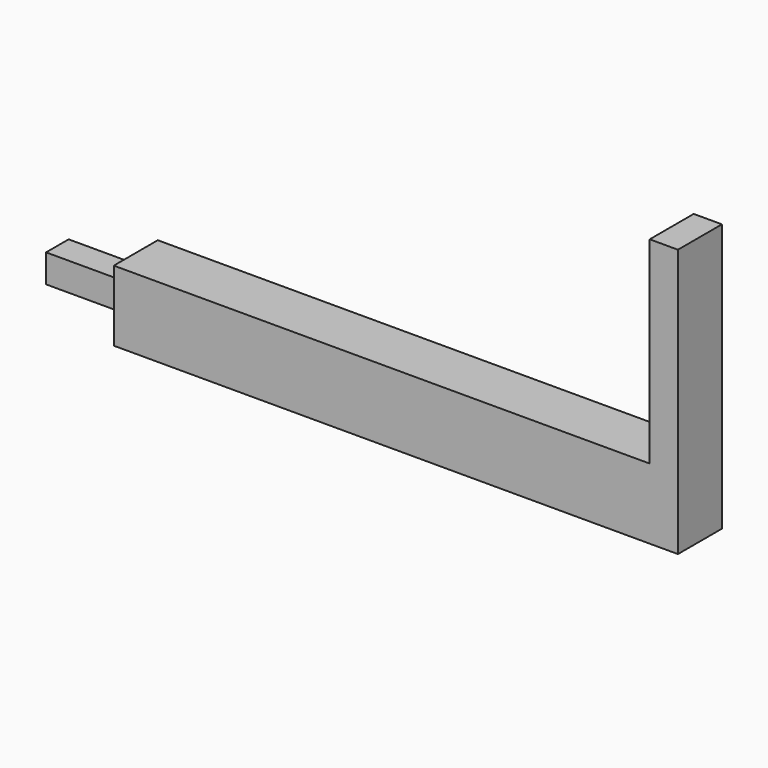
from build123d import *

# Parameters (mm, degrees)
F0_W     = 190
F0_H     = 19.5
F0_W_2   = 10
F1_DEPTH = 25
F2_W     = 10
F2_H     = 19.5
F3_DEPTH = 70
F4_W     = 10
F4_H     = 10
F5_DEPTH = 28


with BuildPart() as f1:
    # F0 (on Top) → F1 (new body)
    with BuildSketch(Plane.XY):
        with Locations((26.199683, -9.304239)):
            Rectangle(F0_W, F0_H)
        with Locations((126.199683, -9.304239)):
            Rectangle(F0_W_2, F0_H)
    extrude(amount=F1_DEPTH)

    # F2 (on face) → F3 (join)
    with BuildSketch(Plane.XY.offset(25)):
        with Locations((126.199683, -9.304239)):
            Rectangle(F2_W, F2_H)
    extrude(amount=F3_DEPTH)

    # F4 (on face) → F5 (join)
    with BuildSketch(Plane(origin=(-68.800317, 0, 0), x_dir=(0, -1, 0), z_dir=(-1, 0, 0))):
        with Locations((9.054239, 13)):
            Rectangle(F4_W, F4_H)
    extrude(amount=F5_DEPTH)


solid = f1.part
